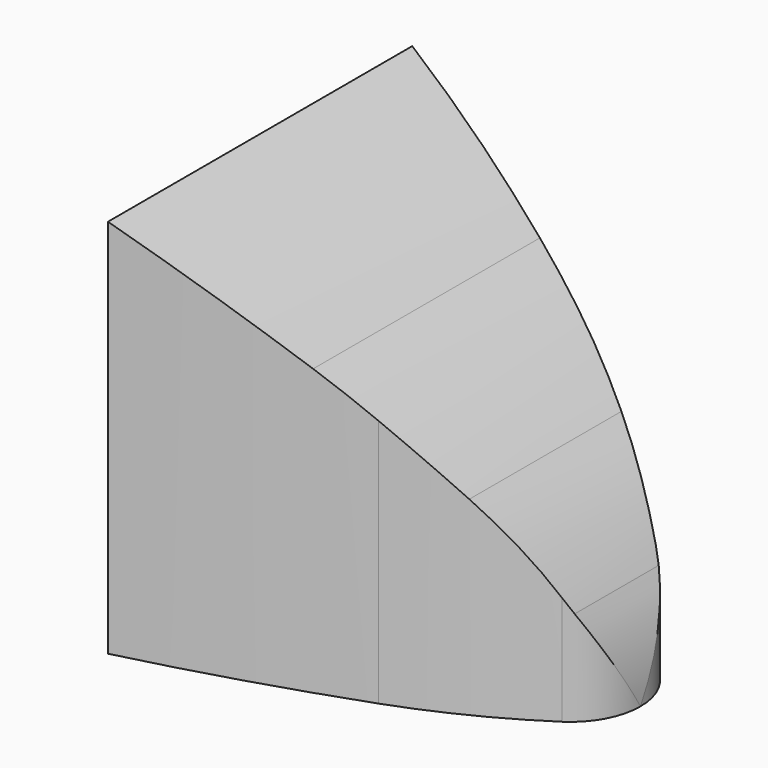
from build123d import *

# Parameters (mm, degrees)
F1_DEPTH = 203.2
F4_DEPTH = 102.6000000987
F5_T     = -3.175


with BuildPart() as f1:
    # F0 (on Top) → F1 (new body)
    with BuildSketch(Plane.XY):
        with BuildLine():
            ThreePointArc((-43.4231416653, -33.1147542783), (-25.3999999994, -25.3999999994), (-8.4143115766, -15.610339234))
            ThreePointArc((-8.4143115766, -15.610339234), (-2.2375332054, -8.8668389281), (0, 0))
            Line((0, 0), (-101.5999999975, 0))
            Line((-101.5999999975, 0), (-101.5999999975, -50.7999999987))
            ThreePointArc((-101.5999999975, -50.7999999987), (-72.2898591354, -42.6867133396), (-43.4231416653, -33.1147542783))
        make_face()
        with BuildLine():
            Line((-101.5999999975, 0), (0, 0))
            ThreePointArc((0, 0), (-2.2375332054, 8.8668389281), (-8.4143115766, 15.610339234))
            ThreePointArc((-8.4143115766, 15.610339234), (-25.3999999994, 25.3999999994), (-43.4231416653, 33.1147542783))
            ThreePointArc((-43.4231416654, 33.1147542783), (-72.2898591354, 42.6867133396), (-101.5999999975, 50.7999999987))
            Line((-101.5999999975, 50.7999999987), (-101.5999999975, 0))
        make_face()
    extrude(amount=F1_DEPTH)

    # F3 (on offset) → F4 (cut, up to face)
    with BuildSketch(Plane.XZ.offset(50.8)):
        with BuildLine():
            Line((0, 203.2), (-101.5999999975, 203.2))
            Line((-101.5999999975, 203.2), (-101.5999999975, 101.6))
            ThreePointArc((-101.5999999975, 101.6), (-79.0155935729, 89.5289612451), (-57.15, 76.2))
            ThreePointArc((-57.15, 76.2), (-40.6457692508, 64.2865384365), (-25.4, 50.8))
            ThreePointArc((-25.4, 50.8), (-14.8980769231, 38.8326923077), (-6.35, 25.4))
            ThreePointArc((-6.35, 25.4), (-1.6115585547, 13.0908603613), (0, 0))
            Line((0, 0), (0, 203.2))
        make_face()
    extrude(amount=-F4_DEPTH, mode=Mode.SUBTRACT)

    # F5
    f5_openings = [f1.faces().sort_by_distance(p)[0] for p in [
        (-60.726739, 0, 0),
    ]]
    offset(amount=F5_T, openings=f5_openings)


solid = f1.part
